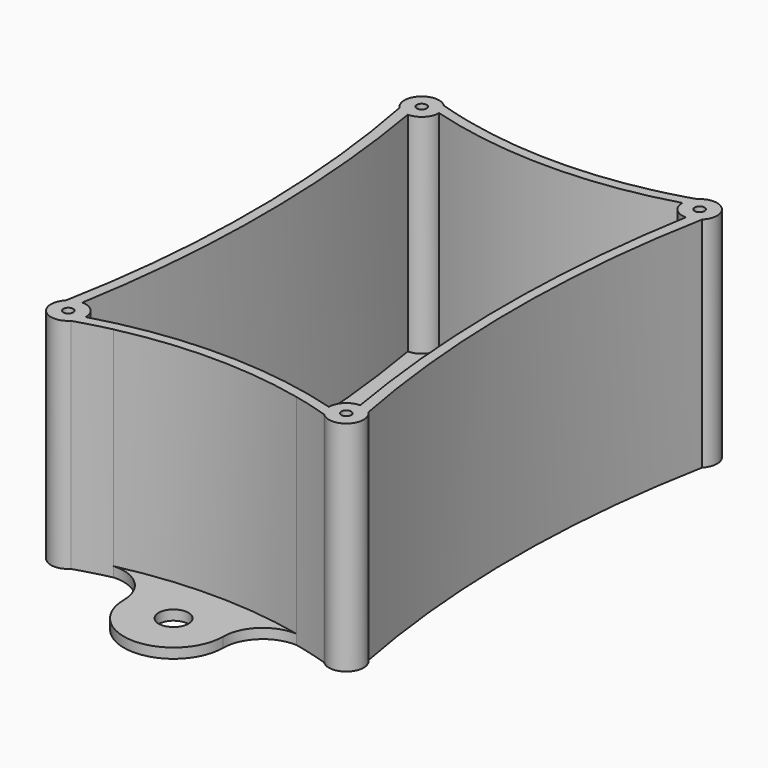
from build123d import *

# Parameters (mm, degrees)
F0_R     = 1
F1_DEPTH = 44
F0_R_2   = 3
F2_DEPTH = 2


with BuildPart() as f1:
    # F0 (on Top) → F1 (new body)
    with BuildSketch(Plane.XY):
        with BuildLine():
            ThreePointArc((-77.468398, 50.197146), (-73.493525, 8.17202), (-77.468398, -33.853106))
            ThreePointArc((-77.468398, -33.853106), (-77.468398, -38.802854), (-72.518651, -38.802854))
            ThreePointArc((-72.518651, -38.802854), (-68.996757, -37.763021), (-65.432755, -36.878214))
            ThreePointArc((-65.432755, -36.878214), (-46.993525, -34.82798), (-28.554295, -36.878214))
            ThreePointArc((-28.554295, -36.878214), (-24.990293, -37.763021), (-21.468398, -38.802854))
            ThreePointArc((-21.468398, -38.802854), (-16.518651, -38.802854), (-16.518651, -33.853106))
            ThreePointArc((-16.518651, -33.853106), (-20.493525, 8.17202), (-16.518651, 50.197146))
            ThreePointArc((-16.518651, 50.197146), (-16.518651, 55.146894), (-21.468398, 55.146894))
            ThreePointArc((-21.468398, 55.146894), (-24.990293, 54.10706), (-28.554295, 53.222254))
            ThreePointArc((-28.554295, 53.222254), (-46.993525, 51.17202), (-65.432755, 53.222254))
            ThreePointArc((-65.432755, 53.222254), (-68.996757, 54.10706), (-72.518651, 55.146894))
            ThreePointArc((-72.518651, 55.146894), (-77.468398, 55.146894), (-77.468398, 50.197146))
        make_face()
        with Locations((-74.993525, -36.32798)):
            Circle(F0_R, mode=Mode.SUBTRACT)
        with Locations((-18.993525, -36.32798)):
            Circle(F0_R, mode=Mode.SUBTRACT)
        with BuildLine():
            ThreePointArc((-74.993525, 49.17202), (-72.518651, 50.197146), (-71.493525, 52.67202))
            ThreePointArc((-71.493525, 52.67202), (-46.993525, 49.17202), (-22.493525, 52.67202))
            ThreePointArc((-22.493525, 52.67202), (-21.468398, 50.197146), (-18.993525, 49.17202))
            ThreePointArc((-18.993525, 49.17202), (-22.493525, 8.17202), (-18.993525, -32.82798))
            ThreePointArc((-18.993525, -32.82798), (-21.468398, -33.853106), (-22.493525, -36.32798))
            ThreePointArc((-22.493525, -36.32798), (-46.993525, -32.82798), (-71.493525, -36.32798))
            ThreePointArc((-71.493525, -36.32798), (-72.518651, -33.853106), (-74.993525, -32.82798))
            ThreePointArc((-74.993525, -32.82798), (-71.493525, 8.17202), (-74.993525, 49.17202))
        make_face(mode=Mode.SUBTRACT)
        with Locations((-74.993525, 52.67202)):
            Circle(F0_R, mode=Mode.SUBTRACT)
        with Locations((-18.993525, 52.67202)):
            Circle(F0_R, mode=Mode.SUBTRACT)
    extrude(amount=F1_DEPTH)

    # F0 (on Top) → F2 (join)
    with BuildSketch(Plane.XY):
        with BuildLine():
            ThreePointArc((-28.554295, -36.878214), (-46.993525, -34.82798), (-65.432755, -36.878214))
            ThreePointArc((-65.432755, -36.878214), (-59.507969, -39.04294), (-56.993525, -44.82798))
            ThreePointArc((-56.993525, -44.82798), (-46.993525, -54.82798), (-36.993525, -44.82798))
            ThreePointArc((-36.993525, -44.82798), (-34.47908, -39.04294), (-28.554295, -36.878214))
        make_face()
        with Locations((-46.993525, -44.82798)):
            Circle(F0_R_2, mode=Mode.SUBTRACT)
        with BuildLine():
            ThreePointArc((-56.993525, 61.17202), (-59.507969, 55.38698), (-65.432755, 53.222254))
            ThreePointArc((-65.432755, 53.222254), (-46.993525, 51.17202), (-28.554295, 53.222254))
            ThreePointArc((-28.554295, 53.222254), (-34.47908, 55.38698), (-36.993525, 61.17202))
            ThreePointArc((-36.993525, 61.17202), (-46.993525, 71.17202), (-56.993525, 61.17202))
        make_face()
        with Locations((-46.993525, 61.17202)):
            Circle(F0_R_2, mode=Mode.SUBTRACT)
        with BuildLine():
            ThreePointArc((-22.493525, 52.67202), (-46.993525, 49.17202), (-71.493525, 52.67202))
            ThreePointArc((-71.493525, 52.67202), (-72.518651, 50.197146), (-74.993525, 49.17202))
            ThreePointArc((-74.993525, 49.17202), (-71.493525, 8.17202), (-74.993525, -32.82798))
            ThreePointArc((-74.993525, -32.82798), (-72.518651, -33.853106), (-71.493525, -36.32798))
            ThreePointArc((-71.493525, -36.32798), (-46.993525, -32.82798), (-22.493525, -36.32798))
            ThreePointArc((-22.493525, -36.32798), (-21.468398, -33.853106), (-18.993525, -32.82798))
            ThreePointArc((-18.993525, -32.82798), (-22.493525, 8.17202), (-18.993525, 49.17202))
            ThreePointArc((-18.993525, 49.17202), (-21.468398, 50.197146), (-22.493525, 52.67202))
        make_face()
        with Locations((-66.993525, -28.32798)):
            Circle(F0_R, mode=Mode.SUBTRACT)
        with Locations((-26.993525, -28.32798)):
            Circle(F0_R, mode=Mode.SUBTRACT)
        with Locations((-66.993525, 44.67202)):
            Circle(F0_R, mode=Mode.SUBTRACT)
        with Locations((-26.993525, 44.67202)):
            Circle(F0_R, mode=Mode.SUBTRACT)
    extrude(amount=F2_DEPTH)


solid = f1.part
